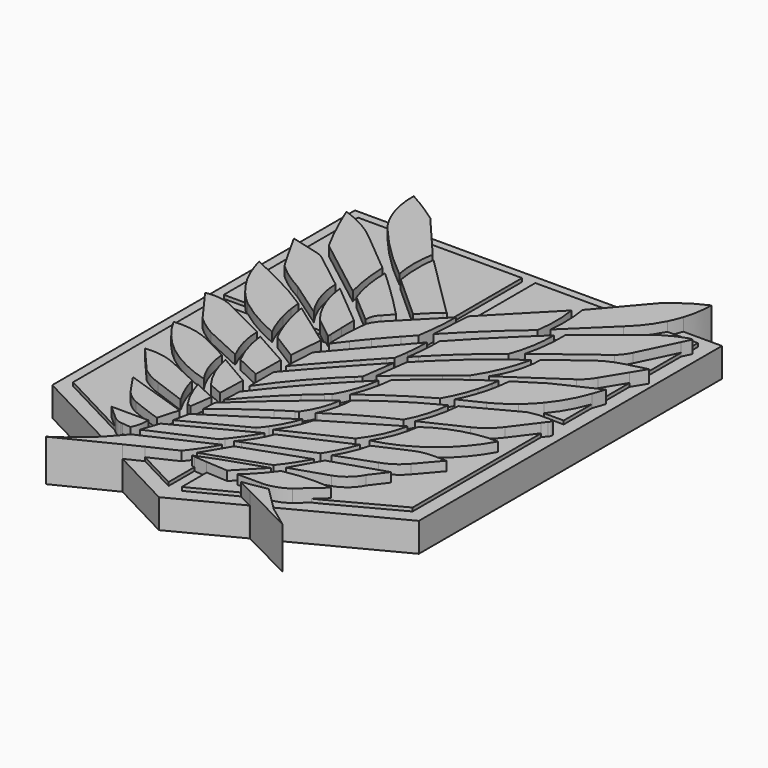
from build123d import *

# Parameters (mm, degrees)
F1_DEPTH = 3.175
F2_DEPTH = 3.556
F3_DEPTH = 4.572


with BuildPart() as f1:
    # F0 (on Top) → F1 (new body)
    with BuildSketch(Plane.XY):
        with BuildLine():
            Line((10.942101, 27.708571), (12.175975, 29.150536))
            Line((12.175975, 29.150536), (12.173106, 29.150536))
            Line((12.173106, 29.150536), (0, 29.150536))
            Line((0, 29.150536), (-11.401706, 29.150536))
            Line((-11.401706, 29.150536), (-11.615391, 29.150536))
            Line((-11.615391, 29.150536), (-10.398058, 27.72077))
            Line((-10.398058, 27.72077), (-0.474967, 27.72077))
            Line((-0.474967, 27.72077), (-0.474967, 17.342675))
            Line((-0.474967, 17.342675), (-0.217039, 17.144594))
            ThreePointArc((-0.217039, 17.144594), (-0.346625, 17.046327), (-0.474967, 16.946438))
            Line((-0.474967, 16.946438), (-0.455974, 15.645449))
            Line((-0.455974, 15.645449), (0.866843, 16.992101))
            ThreePointArc((0.866843, 16.992101), (0.761461, 14.682362), (0.467339, 12.389003))
            ThreePointArc((0.467339, 12.389003), (-0.04709, 11.839228), (-0.555244, 11.283645))
            Line((-0.555244, 11.283645), (-0.507173, 9.361953))
            Line((-0.507173, 9.361953), (-2.156676, 9.361953))
            Line((-2.156676, 9.361953), (-2.179665, 9.361953))
            Line((-2.179665, 9.361953), (-2.226984, 9.361953))
            ThreePointArc((-2.226984, 9.361953), (-2.839926, 8.6185), (-3.442, 7.866218))
            Line((-3.442, 7.866218), (-3.372834, 7.866218))
            Line((-3.372834, 7.866218), (-1.681395, 7.866218))
            Line((-1.681395, 7.866218), (-1.556283, 7.866218))
            Line((-1.556283, 7.866218), (0.98828, 10.840957))
            Line((0.98828, 10.840957), (0.98828, 10.90499))
            Line((0.98828, 10.90499), (0.98828, 27.708571))
            Line((0.98828, 27.708571), (10.892577, 27.708571))
            Line((10.892577, 27.708571), (10.942101, 27.708571))
        make_face()
        with BuildLine():
            Line((20.243119, 29.150536), (16.108483, 29.150536))
            Line((16.108483, 29.150536), (16.019418, 29.150536))
            ThreePointArc((16.019418, 29.150536), (15.750213, 28.418533), (15.42733, 27.708571))
            Line((15.42733, 27.708571), (15.459228, 27.708571))
            Line((15.459228, 27.708571), (18.760661, 27.708571))
            Line((18.760661, 27.708571), (18.760661, 26.364274))
            ThreePointArc((18.760661, 26.364274), (18.991637, 26.416052), (19.228328, 26.413251))
            Line((19.228328, 26.413251), (18.760661, 25.442629))
            Line((18.760661, 25.442629), (18.760661, 25.257207))
            Line((18.760661, 25.257207), (18.760661, 19.603258))
            Line((18.760661, 19.603258), (18.760661, 19.557559))
            Line((18.760661, 19.557559), (19.739991, 19.812593))
            Line((19.739991, 19.812593), (18.819967, 18.311972))
            Line((18.819967, 18.311972), (18.819967, 18.120579))
            Line((18.819967, 18.120579), (18.819967, 14.368495))
            Line((18.819967, 14.368495), (19.228361, 14.561972))
            Line((19.228361, 14.561972), (18.764395, 13.206866))
            Line((18.764395, 13.206866), (18.764395, 9.363008))
            Line((18.764395, 9.363008), (16.786488, 9.363008))
            Line((16.786488, 9.363008), (16.607055, 9.363008))
            ThreePointArc((16.607055, 9.363008), (15.875052, 8.557454), (15.074196, 7.820315))
            Line((15.074196, 7.820315), (15.12593, 7.820315))
            Line((15.12593, 7.820315), (18.787326, 7.820315))
            Line((18.787326, 7.820315), (18.787326, 7.297258))
            Line((18.787326, 7.297258), (19.257572, 7.297258))
            ThreePointArc((19.257572, 7.297258), (19.254686, 7.031807), (19.107958, 6.810575))
            Line((19.107958, 6.810575), (18.742651, 6.322609))
            Line((18.742651, 6.322609), (18.742651, 6.226238))
            Line((18.742651, 6.226238), (18.742651, -11.268058))
            Line((18.742651, -11.268058), (11.633379, -15.055937))
            Line((11.633379, -15.055937), (10.986727, -15.358332))
            Line((10.986727, -15.358332), (9.742682, -16.454276))
            ThreePointArc((9.742682, -16.454276), (8.479894, -17.112148), (7.074224, -17.339129))
            Line((7.074224, -17.339129), (5.552006, -18.248506))
            Line((5.552006, -18.248506), (8.260367, -17.774049))
            Line((8.260367, -17.774049), (8.435662, -17.997799))
            Line((8.435662, -17.997799), (8.720522, -18.280204))
            Line((8.720522, -18.280204), (8.804835, -18.236361))
            Line((8.804835, -18.236361), (20.243119, -12.288457))
            Line((20.243119, -12.288457), (20.243119, -12.045587))
            Line((20.243119, -12.045587), (20.243119, 29.150536))
        make_face()
        with BuildLine():
            ThreePointArc((11.353432, 7.866218), (11.535421, 8.609801), (11.677919, 9.361953))
            Line((11.677919, 9.361953), (10.947204, 9.361953))
            ThreePointArc((10.947204, 9.361953), (10.802359, 8.60974), (10.618024, 7.866218))
            Line((10.618024, 7.866218), (10.636701, 7.866218))
            Line((10.636701, 7.866218), (11.353432, 7.866218))
        make_face()
        with BuildLine():
            Line((8.533673, 9.361953), (6.699276, 7.866218))
            Line((6.699276, 7.866218), (7.882031, 7.866218))
            Line((7.882031, 7.866218), (7.908527, 7.866218))
            ThreePointArc((7.908527, 7.866218), (8.924962, 8.624596), (9.956748, 9.361953))
            Line((9.956748, 9.361953), (8.533673, 9.361953))
        make_face()
        with BuildLine():
            Line((2.33831, 9.361953), (1.687748, 9.361953))
            ThreePointArc((1.687748, 9.361953), (1.588785, 8.612141), (1.463842, 7.866218))
            Line((1.463842, 7.866218), (2.777853, 7.866218))
            ThreePointArc((2.777853, 7.866218), (3.500339, 8.621369), (4.23775, 9.361953))
            Line((4.23775, 9.361953), (2.895109, 9.361953))
            ThreePointArc((2.895109, 9.361953), (2.561, 9.010898), (2.230056, 8.656858))
            ThreePointArc((2.230056, 8.656858), (2.287031, 9.008968), (2.33831, 9.361953))
        make_face()
        with BuildLine():
            Line((-5.483638, 7.866218), (-4.56902, 7.866218))
            ThreePointArc((-4.56902, 7.866218), (-4.555102, 8.62142), (-4.519934, 9.375932))
            Line((-4.519934, 9.375932), (-5.497616, 9.375932))
            Line((-5.497616, 9.375932), (-5.535204, 9.375932))
            Line((-5.535204, 9.375932), (-5.494519, 7.866218))
            Line((-5.494519, 7.866218), (-5.483638, 7.866218))
        make_face()
        Polygon((-7.342822, 7.908154), (-6.050214, 7.908154), (-7.915955, 9.375932), (-9.341796, 9.375932), (-9.504312, 9.375932), (-7.4622, 7.908154), align=None)
        with BuildLine():
            ThreePointArc((-10.020818, 7.908154), (-10.208711, 8.645378), (-10.365159, 9.38991))
            Line((-10.365159, 9.38991), (-10.460102, 9.38991))
            Line((-10.460102, 9.38991), (-11.047213, 9.38991))
            Line((-11.047213, 9.38991), (-11.098869, 9.38991))
            ThreePointArc((-11.098869, 9.38991), (-10.964954, 8.644883), (-10.791089, 7.908154))
            Line((-10.791089, 7.908154), (-10.7257, 7.908154))
            Line((-10.7257, 7.908154), (-10.020818, 7.908154))
        make_face()
        with BuildLine():
            ThreePointArc((-14.916452, 27.695863), (-15.237126, 28.41155), (-15.499689, 29.150536))
            Line((-15.499689, 29.150536), (-15.522967, 29.150536))
            Line((-15.522967, 29.150536), (-19.890798, 29.150536))
            Line((-19.890798, 29.150536), (-19.890798, 11.085769))
            Line((-19.890798, 11.085769), (-19.890798, -12.232818))
            Line((-19.890798, -12.232818), (-8.285701, -18.296458))
            Line((-8.285701, -18.296458), (-8.230479, -18.325311))
            Line((-8.230479, -18.325311), (-7.254843, -17.242709))
            Line((-7.254843, -17.242709), (-7.167171, -17.202083))
            Line((-7.167171, -17.202083), (-8.955863, -16.209904))
            Line((-8.955863, -16.209904), (-9.122639, -16.117394))
            Line((-9.122639, -16.117394), (-9.289679, -16.101856))
            ThreePointArc((-9.289679, -16.101856), (-9.790077, -15.953001), (-10.226472, -15.666446))
            Line((-10.226472, -15.666446), (-10.507414, -15.416552))
            Line((-10.507414, -15.416552), (-10.799015, -15.263421))
            Line((-10.799015, -15.263421), (-13.028231, -14.09277))
            Line((-13.028231, -14.09277), (-18.383333, -11.278228))
            Line((-18.383333, -11.278228), (-18.383333, 6.547499))
            Line((-18.383333, 6.547499), (-18.383333, 6.733614))
            Line((-18.383333, 6.733614), (-18.695435, 7.162544))
            ThreePointArc((-18.695435, 7.162544), (-18.543556, 7.18971), (-18.390896, 7.212067))
            Line((-18.390896, 7.212067), (-18.390896, 7.286378))
            Line((-18.390896, 7.286378), (-18.390896, 7.906509))
            Line((-18.390896, 7.906509), (-14.630531, 7.906509))
            ThreePointArc((-14.630531, 7.906509), (-15.392872, 8.617184), (-16.093851, 9.388451))
            Line((-16.093851, 9.388451), (-16.171413, 9.388451))
            Line((-16.171413, 9.388451), (-18.433427, 9.388451))
            Line((-18.433427, 9.388451), (-18.433427, 13.649439))
            ThreePointArc((-18.433427, 13.649439), (-18.566327, 14.095663), (-18.682644, 14.546495))
            ThreePointArc((-18.682644, 14.546495), (-18.526552, 14.474575), (-18.370595, 14.402362))
            Line((-18.370595, 14.402362), (-18.370595, 14.540819))
            Line((-18.370595, 14.540819), (-18.370595, 18.373679))
            Line((-18.370595, 18.373679), (-18.370595, 18.525376))
            ThreePointArc((-18.370595, 18.525376), (-18.708173, 19.132132), (-19.043529, 19.74012))
            Line((-19.043529, 19.74012), (-18.383423, 19.564331))
            Line((-18.383423, 19.564331), (-18.383423, 19.600941))
            Line((-18.383423, 19.600941), (-18.383423, 25.603637))
            Line((-18.383423, 25.603637), (-18.383423, 25.806943))
            ThreePointArc((-18.383423, 25.806943), (-18.505113, 26.106477), (-18.624945, 26.406759))
            ThreePointArc((-18.624945, 26.406759), (-18.503988, 26.366485), (-18.383423, 26.325055))
            Line((-18.383423, 26.325055), (-18.383423, 26.450491))
            Line((-18.383423, 26.450491), (-18.383423, 27.695863))
            Line((-18.383423, 27.695863), (-14.916452, 27.695863))
        make_face()
        Polygon((7.13353, -19.118344), (7.192141, -19.08333), (5.552006, -18.248506), (0.969347, -20.603023), (0.969347, -17.192189), (-0.476588, -17.06392), (-0.476588, -20.603023), (-4.91422, -18.275505), (-6.685039, -19.138115), (0.174824, -22.736082), align=None)
        Polygon((-0.474967, -16.379828), (-0.474967, -16.922797), (1.010695, -16.328532), (1.010695, -15.79082), (1.010695, -15.760222), (-0.474967, -16.281402), align=None)
        with BuildLine():
            Line((-0.507173, -7.806283), (0.98828, -6.840537))
            Line((0.98828, -6.840537), (0.98828, -5.292152))
            Line((0.98828, -5.292152), (0.98828, -5.168967))
            ThreePointArc((0.98828, -5.168967), (0.237136, -5.641612), (-0.507173, -6.12495))
            Line((-0.507173, -6.12495), (-0.507173, -6.32502))
            Line((-0.507173, -6.32502), (-0.507173, -7.698773))
            Line((-0.507173, -7.698773), (-0.507173, -7.806283))
        make_face()
        with BuildLine():
            ThreePointArc((0.98828, 2.979589), (0.231354, 2.253642), (-0.507173, 1.508986))
            Line((-0.507173, 1.508986), (-0.507173, 0.074131))
            ThreePointArc((-0.507173, 0.074131), (0.235138, 0.883449), (0.98828, 1.682698))
            Line((0.98828, 1.682698), (0.98828, 2.979589))
        make_face()
        with BuildLine():
            ThreePointArc((0.98828, 7.35882), (0.238441, 6.551922), (-0.507173, 5.741118))
            Line((-0.507173, 5.741118), (-0.507173, 4.392258))
            ThreePointArc((-0.507173, 4.392258), (0.238699, 5.207361), (0.98828, 6.019053))
            Line((0.98828, 6.019053), (0.98828, 7.35882))
        make_face()
        with BuildLine():
            ThreePointArc((0.98828, -1.135553), (0.233559, -1.788935), (-0.507173, -2.458133))
            Line((-0.507173, -2.458133), (-0.507173, -3.895698))
            ThreePointArc((-0.507173, -3.895698), (0.237922, -3.270935), (0.98828, -2.652504))
            Line((0.98828, -2.652504), (0.98828, -1.135553))
        make_face()
        with BuildLine():
            Line((-0.507173, -10.968228), (0.98828, -10.190985))
            Line((0.98828, -10.190985), (0.98828, -8.733833))
            ThreePointArc((0.98828, -8.733833), (0.659006, -9.180793), (0.308068, -9.610953))
            Line((0.308068, -9.610953), (-0.507173, -10.034664))
            Line((-0.507173, -10.034664), (-0.507173, -10.047038))
            Line((-0.507173, -10.047038), (-0.507173, -10.944719))
            Line((-0.507173, -10.944719), (-0.507173, -10.968228))
        make_face()
        with BuildLine():
            ThreePointArc((0, -13.880851), (-0.247287, -14.329127), (-0.507173, -14.770217))
            Line((-0.507173, -14.770217), (-0.507173, -15.968322))
            Line((-0.507173, -15.968322), (0.98828, -13.470334))
            Line((0.98828, -13.470334), (0.98828, -12.47053))
            Line((0.98828, -12.47053), (0.381715, -12.710931))
            ThreePointArc((0.381715, -12.710931), (0.693667, -12.358838), (0.98828, -11.992113))
            Line((0.98828, -11.992113), (0.98828, -10.760326))
            ThreePointArc((0.98828, -10.760326), (0.272264, -11.823773), (-0.507173, -12.841651))
            Line((-0.507173, -12.841651), (-0.507173, -14.115872))
            Line((-0.507173, -14.115872), (0, -13.880851))
        make_face()
    extrude(amount=F1_DEPTH)


with BuildPart() as f2:
    # F0 (on Top) → F2 (new body)
    with BuildSketch(Plane.XY):
        with BuildLine():
            Line((-0.474967, 27.72077), (-10.398058, 27.72077))
            Line((-10.398058, 27.72077), (-7.915955, 24.805522))
            ThreePointArc((-7.915955, 24.805522), (-8.132239, 22.519759), (-7.915955, 20.233996))
            ThreePointArc((-7.915955, 20.233996), (-11.139656, 23.114489), (-14.067844, 26.294928))
            ThreePointArc((-14.067844, 26.294928), (-14.521397, 26.977678), (-14.916452, 27.695863))
            Line((-14.916452, 27.695863), (-18.383423, 27.695863))
            Line((-18.383423, 27.695863), (-18.383423, 26.450491))
            Line((-18.383423, 26.450491), (-18.383423, 26.325055))
            ThreePointArc((-18.383423, 26.325055), (-16.091894, 25.272433), (-14.039887, 23.806697))
            Line((-14.039887, 23.806697), (-9.731579, 20.210842))
            ThreePointArc((-9.731579, 20.210842), (-9.534365, 17.726664), (-9.041188, 15.283959))
            Line((-9.041188, 15.283959), (-15.885092, 20.563606))
            ThreePointArc((-15.885092, 20.563606), (-17.207241, 23.1505), (-18.383423, 25.806943))
            Line((-18.383423, 25.806943), (-18.383423, 25.603637))
            Line((-18.383423, 25.603637), (-18.383423, 19.600941))
            Line((-18.383423, 19.600941), (-18.383423, 19.564331))
            Line((-18.383423, 19.564331), (-16.156439, 18.971276))
            ThreePointArc((-16.156439, 18.971276), (-15.494861, 18.764285), (-14.901182, 18.40641))
            Line((-14.901182, 18.40641), (-10.979212, 15.34927))
            ThreePointArc((-10.979212, 15.34927), (-10.498252, 12.651838), (-9.250344, 10.212539))
            Line((-9.250344, 10.212539), (-13.31642, 13.040187))
            ThreePointArc((-13.31642, 13.040187), (-14.988017, 14.060579), (-16.517324, 15.283958))
            ThreePointArc((-16.517324, 15.283958), (-17.451933, 16.900108), (-18.370595, 18.525376))
            Line((-18.370595, 18.525376), (-18.370595, 18.373679))
            Line((-18.370595, 18.373679), (-18.370595, 14.540819))
            Line((-18.370595, 14.540819), (-18.370595, 14.402362))
            ThreePointArc((-18.370595, 14.402362), (-15.823862, 13.171981), (-13.316422, 11.863383))
            Line((-13.316422, 11.863383), (-11.227936, 10.575873))
            ThreePointArc((-11.227936, 10.575873), (-11.176002, 9.98152), (-11.098869, 9.38991))
            Line((-11.098869, 9.38991), (-11.047213, 9.38991))
            Line((-11.047213, 9.38991), (-10.460102, 9.38991))
            Line((-10.460102, 9.38991), (-10.365159, 9.38991))
            ThreePointArc((-10.365159, 9.38991), (-10.426281, 9.733255), (-10.480713, 10.077724))
            Line((-10.480713, 10.077724), (-9.504312, 9.375932))
            Line((-9.504312, 9.375932), (-9.341796, 9.375932))
            Line((-9.341796, 9.375932), (-7.915955, 9.375932))
            ThreePointArc((-7.915955, 9.375932), (-9.45141, 12.002726), (-10.183295, 14.956032))
            Line((-10.183295, 14.956032), (-5.58209, 11.115715))
            Line((-5.58209, 11.115715), (-5.535204, 9.375932))
            Line((-5.535204, 9.375932), (-5.497616, 9.375932))
            Line((-5.497616, 9.375932), (-4.519934, 9.375932))
            ThreePointArc((-4.519934, 9.375932), (-4.441924, 10.360622), (-4.327725, 11.341774))
            ThreePointArc((-4.327725, 11.341774), (-3.980171, 11.966481), (-3.526846, 12.519246))
            Line((-3.526846, 12.519246), (-0.455974, 15.645449))
            Line((-0.455974, 15.645449), (-0.474967, 16.946438))
            ThreePointArc((-0.474967, 16.946438), (-1.449475, 16.095745), (-2.334172, 15.151999))
            Line((-2.334172, 15.151999), (-7.157961, 19.485928))
            ThreePointArc((-7.157961, 19.485928), (-7.371459, 21.784771), (-7.257704, 24.090702))
            Line((-7.257704, 24.090702), (-0.474967, 17.342675))
            Line((-0.474967, 17.342675), (-0.474967, 27.72077))
        make_face()
        with BuildLine():
            ThreePointArc((-8.084055, 14.593568), (-8.730371, 17.051236), (-8.947044, 19.583214))
            ThreePointArc((-8.947044, 19.583214), (-6.160052, 16.950076), (-3.464326, 14.223576))
            Line((-3.464326, 14.223576), (-4.341322, 13.271941))
            ThreePointArc((-4.341322, 13.271941), (-4.77952, 12.625369), (-4.901107, 11.853819))
            Line((-4.901107, 11.853819), (-8.084055, 14.593568))
        make_face(mode=Mode.SUBTRACT)
        with BuildLine():
            Line((15.459228, 27.708571), (15.42733, 27.708571))
            ThreePointArc((15.42733, 27.708571), (14.404282, 26.064173), (13.0962, 24.636028))
            Line((13.0962, 24.636028), (8.591113, 20.280609))
            ThreePointArc((8.591113, 20.280609), (8.687363, 22.553768), (8.469068, 24.818467))
            Line((8.469068, 24.818467), (10.942101, 27.708571))
            Line((10.942101, 27.708571), (10.892577, 27.708571))
            Line((10.892577, 27.708571), (0.98828, 27.708571))
            Line((0.98828, 27.708571), (0.98828, 10.90499))
            Line((0.98828, 10.90499), (0.98828, 10.840957))
            Line((0.98828, 10.840957), (1.828737, 11.8235))
            ThreePointArc((1.828737, 11.8235), (1.79311, 10.590729), (1.687748, 9.361953))
            Line((1.687748, 9.361953), (2.33831, 9.361953))
            ThreePointArc((2.33831, 9.361953), (2.501191, 11.006033), (2.540644, 12.657691))
            ThreePointArc((2.540644, 12.657691), (5.948297, 16.20438), (9.491394, 19.615768))
            ThreePointArc((9.491394, 19.615768), (9.284114, 17.030973), (8.616025, 14.525422))
            ThreePointArc((8.616025, 14.525422), (5.663344, 12.045866), (2.895109, 9.361953))
            Line((2.895109, 9.361953), (4.23775, 9.361953))
            ThreePointArc((4.23775, 9.361953), (7.414509, 12.242931), (10.816341, 14.854322))
            ThreePointArc((10.816341, 14.854322), (9.93373, 12.000611), (8.533673, 9.361953))
            Line((8.533673, 9.361953), (9.956748, 9.361953))
            ThreePointArc((9.956748, 9.361953), (10.501828, 9.738764), (11.050918, 10.109708))
            ThreePointArc((11.050918, 10.109708), (11.003924, 9.735156), (10.947204, 9.361953))
            Line((10.947204, 9.361953), (11.677919, 9.361953))
            ThreePointArc((11.677919, 9.361953), (11.764695, 9.980921), (11.82472, 10.603053))
            Line((11.82472, 10.603053), (14.692879, 12.413286))
            Line((14.692879, 12.413286), (18.819967, 14.368495))
            Line((18.819967, 14.368495), (18.819967, 18.120579))
            Line((18.819967, 18.120579), (18.819967, 18.311972))
            Line((18.819967, 18.311972), (17.318511, 15.862996))
            ThreePointArc((17.318511, 15.862996), (16.782535, 15.084924), (16.073164, 14.460856))
            Line((16.073164, 14.460856), (9.88951, 10.244225))
            ThreePointArc((9.88951, 10.244225), (11.046519, 12.70549), (11.464646, 15.392806))
            Line((11.464646, 15.392806), (14.493965, 17.671807))
            ThreePointArc((14.493965, 17.671807), (15.90102, 18.616742), (17.483078, 19.224854))
            Line((17.483078, 19.224854), (18.760661, 19.557559))
            Line((18.760661, 19.557559), (18.760661, 19.603258))
            Line((18.760661, 19.603258), (18.760661, 25.257207))
            Line((18.760661, 25.257207), (18.760661, 25.442629))
            Line((18.760661, 25.442629), (16.776228, 21.324035))
            ThreePointArc((16.776228, 21.324035), (16.3514, 20.626357), (15.798893, 20.024719))
            Line((15.798893, 20.024719), (9.697986, 15.419946))
            ThreePointArc((9.697986, 15.419946), (10.132875, 17.820124), (10.229945, 20.257451))
            Line((10.229945, 20.257451), (15.549537, 24.596242))
            ThreePointArc((15.549537, 24.596242), (17.074923, 25.625875), (18.760661, 26.364274))
            Line((18.760661, 26.364274), (18.760661, 27.708571))
            Line((18.760661, 27.708571), (15.459228, 27.708571))
        make_face()
        with BuildLine():
            Line((1.303597, 13.369124), (1.592817, 17.809806))
            Line((1.592817, 17.809806), (7.789735, 24.160014))
            ThreePointArc((7.789735, 24.160014), (7.972037, 21.83503), (7.789735, 19.510046))
            ThreePointArc((7.789735, 19.510046), (4.460777, 16.530302), (1.303597, 13.369124))
        make_face(mode=Mode.SUBTRACT)
        with BuildLine():
            Line((0.969347, -20.603023), (5.552006, -18.248506))
            Line((5.552006, -18.248506), (7.074224, -17.339129))
            Line((7.074224, -17.339129), (4.42517, -17.339129))
            ThreePointArc((4.42517, -17.339129), (5.774018, -16.008182), (6.958391, -14.528968))
            ThreePointArc((6.958391, -14.528968), (9.584801, -14.202252), (12.230772, -14.262388))
            Line((12.230772, -14.262388), (10.986727, -15.358332))
            Line((10.986727, -15.358332), (11.633379, -15.055937))
            Line((11.633379, -15.055937), (18.742651, -11.268058))
            Line((18.742651, -11.268058), (18.742651, 6.226238))
            Line((18.742651, 6.226238), (18.742651, 6.322609))
            Line((18.742651, 6.322609), (16.830508, 3.768433))
            ThreePointArc((16.830508, 3.768433), (15.798741, 2.691508), (14.538386, 1.894127))
            Line((14.538386, 1.894127), (10.155271, -0.184002))
            ThreePointArc((10.155271, -0.184002), (10.930187, 1.997692), (11.292315, 4.284425))
            Line((11.292315, 4.284425), (16.570801, 7.094883))
            Line((16.570801, 7.094883), (17.64507, 7.297258))
            Line((17.64507, 7.297258), (18.787326, 7.297258))
            Line((18.787326, 7.297258), (18.787326, 7.820315))
            Line((18.787326, 7.820315), (15.12593, 7.820315))
            Line((15.12593, 7.820315), (15.074196, 7.820315))
            ThreePointArc((15.074196, 7.820315), (13.974248, 6.996118), (12.78861, 6.300815))
            Line((12.78861, 6.300815), (10.273092, 5.078321))
            ThreePointArc((10.273092, 5.078321), (10.885302, 6.444353), (11.353432, 7.866218))
            Line((11.353432, 7.866218), (10.636701, 7.866218))
            Line((10.636701, 7.866218), (10.618024, 7.866218))
            ThreePointArc((10.618024, 7.866218), (10.011587, 6.114719), (9.18685, 4.454803))
            ThreePointArc((9.18685, 4.454803), (5.877483, 2.453758), (2.730293, 0.206251))
            ThreePointArc((2.730293, 0.206251), (3.436149, 2.288536), (3.812223, 4.454803))
            ThreePointArc((3.812223, 4.454803), (5.823567, 6.204708), (7.908527, 7.866218))
            Line((7.908527, 7.866218), (7.882031, 7.866218))
            Line((7.882031, 7.866218), (6.699276, 7.866218))
            Line((6.699276, 7.866218), (2.321271, 4.296472))
            Line((2.321271, 4.296472), (2.777853, 7.866218))
            Line((2.777853, 7.866218), (1.463842, 7.866218))
            ThreePointArc((1.463842, 7.866218), (1.225852, 7.612715), (0.98828, 7.35882))
            Line((0.98828, 7.35882), (0.98828, 6.019053))
            ThreePointArc((0.98828, 6.019053), (1.491297, 6.559612), (1.99596, 7.098635))
            Line((1.99596, 7.098635), (1.48559, 3.437282))
            ThreePointArc((1.48559, 3.437282), (1.236012, 3.209438), (0.98828, 2.979589))
            Line((0.98828, 2.979589), (0.98828, 1.682698))
            ThreePointArc((0.98828, 1.682698), (1.986026, 2.709156), (3.001634, 3.717945))
            ThreePointArc((3.001634, 3.717945), (2.474452, 1.41837), (1.482755, -0.722307))
            ThreePointArc((1.482755, -0.722307), (1.234812, -0.928086), (0.98828, -1.135553))
            Line((0.98828, -1.135553), (0.98828, -2.652504))
            ThreePointArc((0.98828, -2.652504), (1.876213, -1.934308), (2.771244, -1.224977))
            ThreePointArc((2.771244, -1.224977), (2.267586, -3.189228), (1.305123, -4.974058))
            ThreePointArc((1.305123, -4.974058), (1.146555, -5.071275), (0.98828, -5.168967))
            Line((0.98828, -5.168967), (0.98828, -5.292152))
            Line((0.98828, -5.292152), (0.98828, -6.840537))
            Line((0.98828, -6.840537), (2.416203, -5.918401))
            ThreePointArc((2.416203, -5.918401), (1.801556, -7.376487), (0.98828, -8.733833))
            Line((0.98828, -8.733833), (0.98828, -10.190985))
            Line((0.98828, -10.190985), (1.482755, -9.933989))
            ThreePointArc((1.482755, -9.933989), (1.240244, -10.349986), (0.98828, -10.760326))
            Line((0.98828, -10.760326), (0.98828, -11.992113))
            ThreePointArc((0.98828, -11.992113), (1.755422, -10.823637), (2.34766, -9.557502))
            Line((2.34766, -9.557502), (9.182287, -6.536016))
            ThreePointArc((9.182287, -6.536016), (8.478932, -8.24763), (7.572587, -9.86097))
            Line((7.572587, -9.86097), (0.98828, -12.47053))
            Line((0.98828, -12.47053), (0.98828, -13.470334))
            Line((0.98828, -13.470334), (7.783695, -11.074843))
            ThreePointArc((7.783695, -11.074843), (6.846636, -12.618134), (5.791361, -14.083134))
            Line((5.791361, -14.083134), (1.010695, -15.760222))
            Line((1.010695, -15.760222), (1.010695, -15.79082))
            Line((1.010695, -15.79082), (1.010695, -16.328532))
            Line((1.010695, -16.328532), (1.542479, -16.115818))
            Line((1.542479, -16.115818), (5.931833, -14.634062))
            Line((5.931833, -14.634062), (3.317791, -17.331976))
            Line((3.317791, -17.331976), (0.969347, -17.192189))
            Line((0.969347, -17.192189), (0.969347, -20.603023))
        make_face()
        with BuildLine():
            Line((6.916082, -13.784656), (8.675436, -10.680143))
            Line((8.675436, -10.680143), (14.408045, -8.831475))
            Line((14.408045, -8.831475), (13.094967, -10.56572))
            ThreePointArc((13.094967, -10.56572), (12.1527, -11.753457), (10.831011, -12.496238))
            Line((10.831011, -12.496238), (6.916082, -13.784656))
        make_face(mode=Mode.SUBTRACT)
        with BuildLine():
            Line((8.185269, -5.867161), (1.661558, -8.976954))
            ThreePointArc((1.661558, -8.976954), (2.644995, -7.282989), (3.310841, -5.440893))
            Line((3.310841, -5.440893), (10.240407, -1.326867))
            ThreePointArc((10.240407, -1.326867), (9.481408, -3.718581), (8.185269, -5.867161))
        make_face(mode=Mode.SUBTRACT)
        with BuildLine():
            Line((2.574471, -4.316938), (2.624739, -4.213827))
            ThreePointArc((2.624739, -4.213827), (3.267118, -2.44076), (3.521949, -0.57221))
            ThreePointArc((3.521949, -0.57221), (6.907758, 1.828775), (10.51216, 3.887103))
            ThreePointArc((10.51216, 3.887103), (10.083807, 1.588584), (9.195336, -0.574122))
            ThreePointArc((9.195336, -0.574122), (5.871654, -2.254169), (2.70477, -4.213827))
            Line((2.70477, -4.213827), (2.574471, -4.316938))
        make_face(mode=Mode.SUBTRACT)
        with BuildLine():
            Line((12.505243, -8.105647), (8.534526, -9.561853))
            ThreePointArc((8.534526, -9.561853), (9.420442, -7.909541), (9.985871, -6.122009))
            Line((9.985871, -6.122009), (13.313195, -4.638219))
            ThreePointArc((13.313195, -4.638219), (14.283777, -4.32293), (15.298842, -4.217668))
            Line((15.298842, -4.217668), (16.808925, -4.220765))
            Line((16.808925, -4.220765), (14.797539, -6.566543))
            ThreePointArc((14.797539, -6.566543), (13.756192, -7.492183), (12.505243, -8.105647))
        make_face(mode=Mode.SUBTRACT)
        with BuildLine():
            ThreePointArc((18.03495, 1.319876), (14.395736, -2.953462), (9.341825, -5.395444))
            ThreePointArc((9.341825, -5.395444), (10.439533, -3.22657), (11.015926, -0.865057))
            ThreePointArc((11.015926, -0.865057), (14.352741, 0.782195), (18.03495, 1.319876))
        make_face(mode=Mode.SUBTRACT)
        with BuildLine():
            Line((-4.620949, 4.283449), (-1.556283, 7.866218))
            Line((-1.556283, 7.866218), (-1.681395, 7.866218))
            Line((-1.681395, 7.866218), (-3.372834, 7.866218))
            Line((-3.372834, 7.866218), (-3.442, 7.866218))
            ThreePointArc((-3.442, 7.866218), (-3.994445, 7.155702), (-4.537195, 6.437751))
            ThreePointArc((-4.537195, 6.437751), (-4.562617, 7.151773), (-4.56902, 7.866218))
            Line((-4.56902, 7.866218), (-5.483638, 7.866218))
            Line((-5.483638, 7.866218), (-5.494519, 7.866218))
            Line((-5.494519, 7.866218), (-5.483638, 7.462428))
            Line((-5.483638, 7.462428), (-6.050214, 7.908154))
            Line((-6.050214, 7.908154), (-7.342822, 7.908154))
            Line((-7.342822, 7.908154), (-7.4622, 7.908154))
            Line((-7.4622, 7.908154), (-5.483638, 6.486053))
            Line((-5.483638, 6.486053), (-5.77084, 2.738883))
            Line((-5.77084, 2.738883), (-8.737192, 4.598085))
            ThreePointArc((-8.737192, 4.598085), (-9.461137, 6.221269), (-10.020818, 7.908154))
            Line((-10.020818, 7.908154), (-10.7257, 7.908154))
            Line((-10.7257, 7.908154), (-10.791089, 7.908154))
            ThreePointArc((-10.791089, 7.908154), (-10.325897, 6.468781), (-9.708582, 5.087794))
            ThreePointArc((-9.708582, 5.087794), (-12.257273, 6.343984), (-14.630531, 7.906509))
            Line((-14.630531, 7.906509), (-18.390896, 7.906509))
            Line((-18.390896, 7.906509), (-18.390896, 7.286378))
            Line((-18.390896, 7.286378), (-18.390896, 7.212067))
            ThreePointArc((-18.390896, 7.212067), (-16.879306, 7.17312), (-15.452032, 6.673812))
            Line((-15.452032, 6.673812), (-10.704881, 4.274289))
            ThreePointArc((-10.704881, 4.274289), (-10.399276, 2.075003), (-9.608953, 0))
            Line((-9.608953, 0), (-9.608953, -0.124004))
            Line((-9.608953, -0.124004), (-13.704445, 1.756873))
            ThreePointArc((-13.704445, 1.756873), (-14.867756, 2.48362), (-15.925953, 3.356359))
            Line((-15.925953, 3.356359), (-18.383333, 6.733614))
            Line((-18.383333, 6.733614), (-18.383333, 6.547499))
            Line((-18.383333, 6.547499), (-18.383333, -11.278228))
            Line((-18.383333, -11.278228), (-13.028231, -14.09277))
            Line((-13.028231, -14.09277), (-10.799015, -15.263421))
            Line((-10.799015, -15.263421), (-10.507414, -15.416552))
            Line((-10.507414, -15.416552), (-11.563646, -14.477047))
            Line((-11.563646, -14.477047), (-11.796589, -14.281048))
            Line((-11.796589, -14.281048), (-7.745951, -14.281048))
            ThreePointArc((-7.745951, -14.281048), (-7.824285, -15.27102), (-8.154972, -16.20741))
            Line((-8.154972, -16.20741), (-9.122639, -16.117394))
            Line((-9.122639, -16.117394), (-8.955863, -16.209904))
            Line((-8.955863, -16.209904), (-7.167171, -17.202083))
            Line((-7.167171, -17.202083), (-0.507173, -14.115872))
            Line((-0.507173, -14.115872), (-0.507173, -12.841651))
            ThreePointArc((-0.507173, -12.841651), (-0.682049, -13.053325), (-0.859671, -13.262699))
            Line((-0.859671, -13.262699), (-7.217684, -16.080655))
            Line((-7.217684, -16.080655), (-6.54842, -14.108086))
            Line((-6.54842, -14.108086), (-0.507173, -10.968228))
            Line((-0.507173, -10.968228), (-0.507173, -10.944719))
            Line((-0.507173, -10.944719), (-0.507173, -10.047038))
            Line((-0.507173, -10.047038), (-0.507173, -10.034664))
            Line((-0.507173, -10.034664), (-6.108114, -12.945679))
            Line((-6.108114, -12.945679), (-5.738257, -11.184457))
            Line((-5.738257, -11.184457), (-0.507173, -7.806283))
            Line((-0.507173, -7.806283), (-0.507173, -7.698773))
            Line((-0.507173, -7.698773), (-0.507173, -6.32502))
            Line((-0.507173, -6.32502), (-0.507173, -6.12495))
            ThreePointArc((-0.507173, -6.12495), (-3.00059, -7.858585), (-5.406221, -9.712112))
            Line((-5.406221, -9.712112), (-5.317361, -8.201486))
            ThreePointArc((-5.317361, -8.201486), (-2.942528, -6.014786), (-0.507173, -3.895698))
            Line((-0.507173, -3.895698), (-0.507173, -2.458133))
            ThreePointArc((-0.507173, -2.458133), (-2.870199, -4.79823), (-5.062559, -7.29893))
            Line((-5.062559, -7.29893), (-4.949515, -5.277113))
            ThreePointArc((-4.949515, -5.277113), (-2.785411, -2.554116), (-0.507173, 0.074131))
            Line((-0.507173, 0.074131), (-0.507173, 1.508986))
            ThreePointArc((-0.507173, 1.508986), (-2.842437, -1.117219), (-4.949515, -3.929803))
            Line((-4.949515, -3.929803), (-4.949515, -0.622232))
            ThreePointArc((-4.949515, -0.622232), (-2.745676, 1.900368), (-0.507173, 4.392258))
            Line((-0.507173, 4.392258), (-0.507173, 5.741118))
            ThreePointArc((-0.507173, 5.741118), (-2.676955, 3.332307), (-4.80945, 0.890426))
            Line((-4.80945, 0.890426), (-4.620949, 4.283449))
        make_face()
        with BuildLine():
            Line((-12.258389, -11.074842), (-13.762535, -8.871401))
            Line((-13.762535, -8.871401), (-6.809159, -11.180396))
            Line((-6.809159, -11.180396), (-7.455677, -13.476198))
            ThreePointArc((-7.455677, -13.476198), (-9.108524, -12.889871), (-10.741048, -12.249132))
            ThreePointArc((-10.741048, -12.249132), (-11.567681, -11.749803), (-12.258389, -11.074842))
        make_face(mode=Mode.SUBTRACT)
        with BuildLine():
            Line((-12.714962, -4.669949), (-9.433203, -6.186839))
            ThreePointArc((-9.433203, -6.186839), (-8.827144, -7.930126), (-7.988571, -9.574252))
            Line((-7.988571, -9.574252), (-11.459627, -8.297571))
            ThreePointArc((-11.459627, -8.297571), (-12.63601, -7.798871), (-13.693531, -7.081774))
            Line((-13.693531, -7.081774), (-16.273392, -4.076878))
            ThreePointArc((-16.273392, -4.076878), (-14.454229, -4.133725), (-12.714962, -4.669949))
        make_face(mode=Mode.SUBTRACT)
        with BuildLine():
            Line((-13.082422, 0.453588), (-10.379686, -0.931367))
            ThreePointArc((-10.379686, -0.931367), (-9.912769, -3.242588), (-8.835424, -5.339986))
            ThreePointArc((-8.835424, -5.339986), (-11.621728, -4.272626), (-14.148747, -2.686144))
            ThreePointArc((-14.148747, -2.686144), (-15.983021, -0.859282), (-17.436579, 1.282951))
            ThreePointArc((-17.436579, 1.282951), (-15.199214, 1.184773), (-13.082422, 0.453588))
        make_face(mode=Mode.SUBTRACT)
        with BuildLine():
            ThreePointArc((-7.01718, -9.823327), (-7.924633, -8.199413), (-8.58635, -6.460821))
            Line((-8.58635, -6.460821), (-6.216028, -7.558983))
            Line((-6.216028, -7.558983), (-6.565676, -10.006519))
            Line((-6.565676, -10.006519), (-7.01718, -9.823327))
        make_face(mode=Mode.SUBTRACT)
        with BuildLine():
            ThreePointArc((-7.664774, -5.838135), (-8.887233, -3.731391), (-9.607555, -1.404609))
            Line((-9.607555, -1.404609), (-6.040679, -3.48713))
            Line((-6.040679, -3.48713), (-6.12874, -6.498821))
            Line((-6.12874, -6.498821), (-7.664774, -5.838135))
        make_face(mode=Mode.SUBTRACT)
        with BuildLine():
            ThreePointArc((-8.612655, -0.607571), (-9.48988, 1.521471), (-9.957657, 3.776139))
            Line((-9.957657, 3.776139), (-5.864556, 1.479517))
            Line((-5.864556, 1.479517), (-5.917393, -1.884418))
            Line((-5.917393, -1.884418), (-8.612655, -0.607571))
        make_face(mode=Mode.SUBTRACT)
        with BuildLine():
            Line((-0.476588, -20.603023), (-0.476588, -17.06392))
            Line((-0.476588, -17.06392), (-0.764028, -17.038422))
            Line((-0.764028, -17.038422), (-0.474967, -16.922797))
            Line((-0.474967, -16.922797), (-0.474967, -16.379828))
            Line((-0.474967, -16.379828), (-0.474967, -16.281402))
            Line((-0.474967, -16.281402), (-0.752992, -16.378935))
            Line((-0.752992, -16.378935), (-0.507173, -15.968322))
            Line((-0.507173, -15.968322), (-0.507173, -14.770217))
            ThreePointArc((-0.507173, -14.770217), (-1.23237, -15.869769), (-2.035734, -16.913576))
            Line((-2.035734, -16.913576), (-4.91422, -18.275505))
            Line((-4.91422, -18.275505), (-0.476588, -20.603023))
        make_face()
        with BuildLine():
            Line((18.764395, 9.363008), (18.764395, 13.206866))
            ThreePointArc((18.764395, 13.206866), (17.86068, 11.186745), (16.607055, 9.363008))
            Line((16.607055, 9.363008), (16.786488, 9.363008))
            Line((16.786488, 9.363008), (18.764395, 9.363008))
        make_face()
        with BuildLine():
            ThreePointArc((-16.093851, 9.388451), (-17.471141, 11.405012), (-18.433427, 13.649439))
            Line((-18.433427, 13.649439), (-18.433427, 9.388451))
            Line((-18.433427, 9.388451), (-16.171413, 9.388451))
            Line((-16.171413, 9.388451), (-16.093851, 9.388451))
        make_face()
        with BuildLine():
            ThreePointArc((-0.555244, 11.283645), (-1.400343, 10.330828), (-2.226984, 9.361953))
            Line((-2.226984, 9.361953), (-2.179665, 9.361953))
            Line((-2.179665, 9.361953), (-2.156676, 9.361953))
            Line((-2.156676, 9.361953), (-0.507173, 9.361953))
            Line((-0.507173, 9.361953), (-0.555244, 11.283645))
        make_face()
    extrude(amount=F2_DEPTH)


with BuildPart() as f3:
    # F0 (on Top) → F3 (new body)
    with BuildSketch(Plane.XY):
        with BuildLine():
            Line((-10.398058, 27.72077), (-11.615391, 29.150536))
            Line((-11.615391, 29.150536), (-12.278554, 29.929426))
            ThreePointArc((-12.278554, 29.929426), (-14.075687, 31.143481), (-15.941009, 32.249913))
            ThreePointArc((-15.941009, 32.249913), (-15.844608, 30.682531), (-15.499689, 29.150536))
            ThreePointArc((-15.499689, 29.150536), (-15.237126, 28.41155), (-14.916452, 27.695863))
            ThreePointArc((-14.916452, 27.695863), (-14.521397, 26.977678), (-14.067844, 26.294928))
            ThreePointArc((-14.067844, 26.294928), (-11.139656, 23.114489), (-7.915955, 20.233996))
            ThreePointArc((-7.915955, 20.233996), (-8.132239, 22.519759), (-7.915955, 24.805522))
            Line((-7.915955, 24.805522), (-10.398058, 27.72077))
        make_face()
        with BuildLine():
            Line((-0.217039, 17.144594), (-0.474967, 17.342675))
            Line((-0.474967, 17.342675), (-7.257704, 24.090702))
            ThreePointArc((-7.257704, 24.090702), (-7.371459, 21.784771), (-7.157961, 19.485928))
            Line((-7.157961, 19.485928), (-2.334172, 15.151999))
            ThreePointArc((-2.334172, 15.151999), (-1.449475, 16.095745), (-0.474967, 16.946438))
            ThreePointArc((-0.474967, 16.946438), (-0.346625, 17.046327), (-0.217039, 17.144594))
        make_face()
        with BuildLine():
            ThreePointArc((-3.464326, 14.223576), (-6.160052, 16.950076), (-8.947044, 19.583214))
            ThreePointArc((-8.947044, 19.583214), (-8.730371, 17.051236), (-8.084055, 14.593568))
            Line((-8.084055, 14.593568), (-4.901107, 11.853819))
            ThreePointArc((-4.901107, 11.853819), (-4.77952, 12.625369), (-4.341322, 13.271941))
            Line((-4.341322, 13.271941), (-3.464326, 14.223576))
        make_face()
        with BuildLine():
            ThreePointArc((-14.039887, 23.806697), (-16.091894, 25.272433), (-18.383423, 26.325055))
            ThreePointArc((-18.383423, 26.325055), (-18.503988, 26.366485), (-18.624945, 26.406759))
            ThreePointArc((-18.624945, 26.406759), (-18.505113, 26.106477), (-18.383423, 25.806943))
            ThreePointArc((-18.383423, 25.806943), (-17.207241, 23.1505), (-15.885092, 20.563606))
            Line((-15.885092, 20.563606), (-9.041188, 15.283959))
            ThreePointArc((-9.041188, 15.283959), (-9.534365, 17.726664), (-9.731579, 20.210842))
            Line((-9.731579, 20.210842), (-14.039887, 23.806697))
        make_face()
        with BuildLine():
            Line((-16.156439, 18.971276), (-18.383423, 19.564331))
            Line((-18.383423, 19.564331), (-19.043529, 19.74012))
            ThreePointArc((-19.043529, 19.74012), (-18.708173, 19.132132), (-18.370595, 18.525376))
            ThreePointArc((-18.370595, 18.525376), (-17.451933, 16.900108), (-16.517324, 15.283958))
            ThreePointArc((-16.517324, 15.283958), (-14.988017, 14.060579), (-13.31642, 13.040187))
            Line((-13.31642, 13.040187), (-9.250344, 10.212539))
            ThreePointArc((-9.250344, 10.212539), (-10.498252, 12.651838), (-10.979212, 15.34927))
            Line((-10.979212, 15.34927), (-14.901182, 18.40641))
            ThreePointArc((-14.901182, 18.40641), (-15.494861, 18.764285), (-16.156439, 18.971276))
        make_face()
        with BuildLine():
            Line((-5.483638, 7.462428), (-5.494519, 7.866218))
            Line((-5.494519, 7.866218), (-5.535204, 9.375932))
            Line((-5.535204, 9.375932), (-5.58209, 11.115715))
            Line((-5.58209, 11.115715), (-10.183295, 14.956032))
            ThreePointArc((-10.183295, 14.956032), (-9.45141, 12.002726), (-7.915955, 9.375932))
            Line((-7.915955, 9.375932), (-6.050214, 7.908154))
            Line((-6.050214, 7.908154), (-5.483638, 7.462428))
        make_face()
        with BuildLine():
            Line((-5.483638, 6.486053), (-7.4622, 7.908154))
            Line((-7.4622, 7.908154), (-9.504312, 9.375932))
            Line((-9.504312, 9.375932), (-10.480713, 10.077724))
            ThreePointArc((-10.480713, 10.077724), (-10.426281, 9.733255), (-10.365159, 9.38991))
            ThreePointArc((-10.365159, 9.38991), (-10.208711, 8.645378), (-10.020818, 7.908154))
            ThreePointArc((-10.020818, 7.908154), (-9.461137, 6.221269), (-8.737192, 4.598085))
            Line((-8.737192, 4.598085), (-5.77084, 2.738883))
            Line((-5.77084, 2.738883), (-5.483638, 6.486053))
        make_face()
        with BuildLine():
            ThreePointArc((-13.316422, 11.863383), (-15.823862, 13.171981), (-18.370595, 14.402362))
            ThreePointArc((-18.370595, 14.402362), (-18.526552, 14.474575), (-18.682644, 14.546495))
            ThreePointArc((-18.682644, 14.546495), (-18.566327, 14.095663), (-18.433427, 13.649439))
            ThreePointArc((-18.433427, 13.649439), (-17.471141, 11.405012), (-16.093851, 9.388451))
            ThreePointArc((-16.093851, 9.388451), (-15.392872, 8.617184), (-14.630531, 7.906509))
            ThreePointArc((-14.630531, 7.906509), (-12.257273, 6.343984), (-9.708582, 5.087794))
            ThreePointArc((-9.708582, 5.087794), (-10.325897, 6.468781), (-10.791089, 7.908154))
            ThreePointArc((-10.791089, 7.908154), (-10.964954, 8.644883), (-11.098869, 9.38991))
            ThreePointArc((-11.098869, 9.38991), (-11.176002, 9.98152), (-11.227936, 10.575873))
            Line((-11.227936, 10.575873), (-13.316422, 11.863383))
        make_face()
        with BuildLine():
            Line((-18.695435, 7.162544), (-18.383333, 6.733614))
            Line((-18.383333, 6.733614), (-15.925953, 3.356359))
            ThreePointArc((-15.925953, 3.356359), (-14.867756, 2.48362), (-13.704445, 1.756873))
            Line((-13.704445, 1.756873), (-9.608953, -0.124004))
            Line((-9.608953, -0.124004), (-9.608953, 0))
            ThreePointArc((-9.608953, 0), (-10.399276, 2.075003), (-10.704881, 4.274289))
            Line((-10.704881, 4.274289), (-15.452032, 6.673812))
            ThreePointArc((-15.452032, 6.673812), (-16.879306, 7.17312), (-18.390896, 7.212067))
            ThreePointArc((-18.390896, 7.212067), (-18.543556, 7.18971), (-18.695435, 7.162544))
        make_face()
        with BuildLine():
            Line((-5.864556, 1.479517), (-9.957657, 3.776139))
            ThreePointArc((-9.957657, 3.776139), (-9.48988, 1.521471), (-8.612655, -0.607571))
            Line((-8.612655, -0.607571), (-5.917393, -1.884418))
            Line((-5.917393, -1.884418), (-5.864556, 1.479517))
        make_face()
        with BuildLine():
            Line((-6.040679, -3.48713), (-9.607555, -1.404609))
            ThreePointArc((-9.607555, -1.404609), (-8.887233, -3.731391), (-7.664774, -5.838135))
            Line((-7.664774, -5.838135), (-6.12874, -6.498821))
            Line((-6.12874, -6.498821), (-6.040679, -3.48713))
        make_face()
        with BuildLine():
            ThreePointArc((-8.835424, -5.339986), (-9.912769, -3.242588), (-10.379686, -0.931367))
            Line((-10.379686, -0.931367), (-13.082422, 0.453588))
            ThreePointArc((-13.082422, 0.453588), (-15.199214, 1.184773), (-17.436579, 1.282951))
            ThreePointArc((-17.436579, 1.282951), (-15.983021, -0.859282), (-14.148747, -2.686144))
            ThreePointArc((-14.148747, -2.686144), (-11.621728, -4.272626), (-8.835424, -5.339986))
        make_face()
        with BuildLine():
            ThreePointArc((-7.988571, -9.574252), (-8.827144, -7.930126), (-9.433203, -6.186839))
            Line((-9.433203, -6.186839), (-12.714962, -4.669949))
            ThreePointArc((-12.714962, -4.669949), (-14.454229, -4.133725), (-16.273392, -4.076878))
            Line((-16.273392, -4.076878), (-13.693531, -7.081774))
            ThreePointArc((-13.693531, -7.081774), (-12.63601, -7.798871), (-11.459627, -8.297571))
            Line((-11.459627, -8.297571), (-7.988571, -9.574252))
        make_face()
        with BuildLine():
            Line((-6.216028, -7.558983), (-8.58635, -6.460821))
            ThreePointArc((-8.58635, -6.460821), (-7.924633, -8.199413), (-7.01718, -9.823327))
            Line((-7.01718, -9.823327), (-6.565676, -10.006519))
            Line((-6.565676, -10.006519), (-6.216028, -7.558983))
        make_face()
        with BuildLine():
            Line((-6.809159, -11.180396), (-13.762535, -8.871401))
            Line((-13.762535, -8.871401), (-12.258389, -11.074842))
            ThreePointArc((-12.258389, -11.074842), (-11.567681, -11.749803), (-10.741048, -12.249132))
            ThreePointArc((-10.741048, -12.249132), (-9.108524, -12.889871), (-7.455677, -13.476198))
            Line((-7.455677, -13.476198), (-6.809159, -11.180396))
        make_face()
        with BuildLine():
            Line((-9.289679, -16.101856), (-9.122639, -16.117394))
            Line((-9.122639, -16.117394), (-8.154972, -16.20741))
            ThreePointArc((-8.154972, -16.20741), (-7.824285, -15.27102), (-7.745951, -14.281048))
            Line((-7.745951, -14.281048), (-11.796589, -14.281048))
            Line((-11.796589, -14.281048), (-11.563646, -14.477047))
            Line((-11.563646, -14.477047), (-10.507414, -15.416552))
            Line((-10.507414, -15.416552), (-10.226472, -15.666446))
            ThreePointArc((-10.226472, -15.666446), (-9.790077, -15.953001), (-9.289679, -16.101856))
        make_face()
        with BuildLine():
            Line((-12.669305, -22.110857), (-6.685039, -19.138115))
            Line((-6.685039, -19.138115), (-4.91422, -18.275505))
            Line((-4.91422, -18.275505), (-2.035734, -16.913576))
            ThreePointArc((-2.035734, -16.913576), (-1.23237, -15.869769), (-0.507173, -14.770217))
            ThreePointArc((-0.507173, -14.770217), (-0.247287, -14.329127), (0, -13.880851))
            Line((0, -13.880851), (-0.507173, -14.115872))
            Line((-0.507173, -14.115872), (-7.167171, -17.202083))
            Line((-7.167171, -17.202083), (-7.254843, -17.242709))
            Line((-7.254843, -17.242709), (-8.230479, -18.325311))
            Line((-8.230479, -18.325311), (-9.026031, -19.208085))
            Line((-9.026031, -19.208085), (-11.336399, -21.192633))
            Line((-11.336399, -21.192633), (-12.669305, -22.110857))
        make_face()
        with BuildLine():
            ThreePointArc((-0.859671, -13.262699), (-0.682049, -13.053325), (-0.507173, -12.841651))
            ThreePointArc((-0.507173, -12.841651), (0.272264, -11.823773), (0.98828, -10.760326))
            ThreePointArc((0.98828, -10.760326), (1.240244, -10.349986), (1.482755, -9.933989))
            Line((1.482755, -9.933989), (0.98828, -10.190985))
            Line((0.98828, -10.190985), (-0.507173, -10.968228))
            Line((-0.507173, -10.968228), (-6.54842, -14.108086))
            Line((-6.54842, -14.108086), (-7.217684, -16.080655))
            Line((-7.217684, -16.080655), (-0.859671, -13.262699))
        make_face()
        with BuildLine():
            ThreePointArc((0.308068, -9.610953), (0.659006, -9.180793), (0.98828, -8.733833))
            ThreePointArc((0.98828, -8.733833), (1.801556, -7.376487), (2.416203, -5.918401))
            Line((2.416203, -5.918401), (0.98828, -6.840537))
            Line((0.98828, -6.840537), (-0.507173, -7.806283))
            Line((-0.507173, -7.806283), (-5.738257, -11.184457))
            Line((-5.738257, -11.184457), (-6.108114, -12.945679))
            Line((-6.108114, -12.945679), (-0.507173, -10.034664))
            Line((-0.507173, -10.034664), (0.308068, -9.610953))
        make_face()
        with BuildLine():
            ThreePointArc((0.98828, -2.652504), (0.237922, -3.270935), (-0.507173, -3.895698))
            ThreePointArc((-0.507173, -3.895698), (-2.942528, -6.014786), (-5.317361, -8.201486))
            Line((-5.317361, -8.201486), (-5.406221, -9.712112))
            ThreePointArc((-5.406221, -9.712112), (-3.00059, -7.858585), (-0.507173, -6.12495))
            ThreePointArc((-0.507173, -6.12495), (0.237136, -5.641612), (0.98828, -5.168967))
            ThreePointArc((0.98828, -5.168967), (1.146555, -5.071275), (1.305123, -4.974058))
            ThreePointArc((1.305123, -4.974058), (2.267586, -3.189228), (2.771244, -1.224977))
            ThreePointArc((2.771244, -1.224977), (1.876213, -1.934308), (0.98828, -2.652504))
        make_face()
        with BuildLine():
            ThreePointArc((0.98828, 1.682698), (0.235138, 0.883449), (-0.507173, 0.074131))
            ThreePointArc((-0.507173, 0.074131), (-2.785411, -2.554116), (-4.949515, -5.277113))
            Line((-4.949515, -5.277113), (-5.062559, -7.29893))
            ThreePointArc((-5.062559, -7.29893), (-2.870199, -4.79823), (-0.507173, -2.458133))
            ThreePointArc((-0.507173, -2.458133), (0.233559, -1.788935), (0.98828, -1.135553))
            ThreePointArc((0.98828, -1.135553), (1.234812, -0.928086), (1.482755, -0.722307))
            ThreePointArc((1.482755, -0.722307), (2.474452, 1.41837), (3.001634, 3.717945))
            ThreePointArc((3.001634, 3.717945), (1.986026, 2.709156), (0.98828, 1.682698))
        make_face()
        with BuildLine():
            ThreePointArc((0.98828, 6.019053), (0.238699, 5.207361), (-0.507173, 4.392258))
            ThreePointArc((-0.507173, 4.392258), (-2.745676, 1.900368), (-4.949515, -0.622232))
            Line((-4.949515, -0.622232), (-4.949515, -3.929803))
            ThreePointArc((-4.949515, -3.929803), (-2.842437, -1.117219), (-0.507173, 1.508986))
            ThreePointArc((-0.507173, 1.508986), (0.231354, 2.253642), (0.98828, 2.979589))
            ThreePointArc((0.98828, 2.979589), (1.236012, 3.209438), (1.48559, 3.437282))
            Line((1.48559, 3.437282), (1.99596, 7.098635))
            ThreePointArc((1.99596, 7.098635), (1.491297, 6.559612), (0.98828, 6.019053))
        make_face()
        with BuildLine():
            Line((1.828737, 11.8235), (0.98828, 10.840957))
            Line((0.98828, 10.840957), (-1.556283, 7.866218))
            Line((-1.556283, 7.866218), (-4.620949, 4.283449))
            Line((-4.620949, 4.283449), (-4.80945, 0.890426))
            ThreePointArc((-4.80945, 0.890426), (-2.676955, 3.332307), (-0.507173, 5.741118))
            ThreePointArc((-0.507173, 5.741118), (0.238441, 6.551922), (0.98828, 7.35882))
            ThreePointArc((0.98828, 7.35882), (1.225852, 7.612715), (1.463842, 7.866218))
            ThreePointArc((1.463842, 7.866218), (1.588785, 8.612141), (1.687748, 9.361953))
            ThreePointArc((1.687748, 9.361953), (1.79311, 10.590729), (1.828737, 11.8235))
        make_face()
        with BuildLine():
            ThreePointArc((-4.537195, 6.437751), (-3.994445, 7.155702), (-3.442, 7.866218))
            ThreePointArc((-3.442, 7.866218), (-2.839926, 8.6185), (-2.226984, 9.361953))
            ThreePointArc((-2.226984, 9.361953), (-1.400343, 10.330828), (-0.555244, 11.283645))
            ThreePointArc((-0.555244, 11.283645), (-0.04709, 11.839228), (0.467339, 12.389003))
            ThreePointArc((0.467339, 12.389003), (0.761461, 14.682362), (0.866843, 16.992101))
            Line((0.866843, 16.992101), (-0.455974, 15.645449))
            Line((-0.455974, 15.645449), (-3.526846, 12.519246))
            ThreePointArc((-3.526846, 12.519246), (-3.980171, 11.966481), (-4.327725, 11.341774))
            ThreePointArc((-4.327725, 11.341774), (-4.441924, 10.360622), (-4.519934, 9.375932))
            ThreePointArc((-4.519934, 9.375932), (-4.555102, 8.62142), (-4.56902, 7.866218))
            ThreePointArc((-4.56902, 7.866218), (-4.562617, 7.151773), (-4.537195, 6.437751))
        make_face()
        with BuildLine():
            Line((7.789735, 24.160014), (1.592817, 17.809806))
            Line((1.592817, 17.809806), (1.303597, 13.369124))
            ThreePointArc((1.303597, 13.369124), (4.460777, 16.530302), (7.789735, 19.510046))
            ThreePointArc((7.789735, 19.510046), (7.972037, 21.83503), (7.789735, 24.160014))
        make_face()
        with BuildLine():
            ThreePointArc((15.42733, 27.708571), (15.750213, 28.418533), (16.019418, 29.150536))
            ThreePointArc((16.019418, 29.150536), (16.401862, 30.729473), (16.535755, 32.34854))
            ThreePointArc((16.535755, 32.34854), (14.543217, 31.257524), (12.767043, 29.841287))
            Line((12.767043, 29.841287), (12.175975, 29.150536))
            Line((12.175975, 29.150536), (10.942101, 27.708571))
            Line((10.942101, 27.708571), (8.469068, 24.818467))
            ThreePointArc((8.469068, 24.818467), (8.687363, 22.553768), (8.591113, 20.280609))
            Line((8.591113, 20.280609), (13.0962, 24.636028))
            ThreePointArc((13.0962, 24.636028), (14.404282, 26.064173), (15.42733, 27.708571))
        make_face()
        with BuildLine():
            ThreePointArc((4.23775, 9.361953), (3.500339, 8.621369), (2.777853, 7.866218))
            Line((2.777853, 7.866218), (2.321271, 4.296472))
            Line((2.321271, 4.296472), (6.699276, 7.866218))
            Line((6.699276, 7.866218), (8.533673, 9.361953))
            ThreePointArc((8.533673, 9.361953), (9.93373, 12.000611), (10.816341, 14.854322))
            ThreePointArc((10.816341, 14.854322), (7.414509, 12.242931), (4.23775, 9.361953))
        make_face()
        with BuildLine():
            Line((19.739991, 19.812593), (18.760661, 19.557559))
            Line((18.760661, 19.557559), (17.483078, 19.224854))
            ThreePointArc((17.483078, 19.224854), (15.90102, 18.616742), (14.493965, 17.671807))
            Line((14.493965, 17.671807), (11.464646, 15.392806))
            ThreePointArc((11.464646, 15.392806), (11.046519, 12.70549), (9.88951, 10.244225))
            Line((9.88951, 10.244225), (16.073164, 14.460856))
            ThreePointArc((16.073164, 14.460856), (16.782535, 15.084924), (17.318511, 15.862996))
            Line((17.318511, 15.862996), (18.819967, 18.311972))
            Line((18.819967, 18.311972), (19.739991, 19.812593))
        make_face()
        with BuildLine():
            Line((19.228361, 14.561972), (18.819967, 14.368495))
            Line((18.819967, 14.368495), (14.692879, 12.413286))
            Line((14.692879, 12.413286), (11.82472, 10.603053))
            ThreePointArc((11.82472, 10.603053), (11.764695, 9.980921), (11.677919, 9.361953))
            ThreePointArc((11.677919, 9.361953), (11.535421, 8.609801), (11.353432, 7.866218))
            ThreePointArc((11.353432, 7.866218), (10.885302, 6.444353), (10.273092, 5.078321))
            Line((10.273092, 5.078321), (12.78861, 6.300815))
            ThreePointArc((12.78861, 6.300815), (13.974248, 6.996118), (15.074196, 7.820315))
            ThreePointArc((15.074196, 7.820315), (15.875052, 8.557454), (16.607055, 9.363008))
            ThreePointArc((16.607055, 9.363008), (17.86068, 11.186745), (18.764395, 13.206866))
            Line((18.764395, 13.206866), (19.228361, 14.561972))
        make_face()
        with BuildLine():
            ThreePointArc((9.956748, 9.361953), (8.924962, 8.624596), (7.908527, 7.866218))
            ThreePointArc((7.908527, 7.866218), (5.823567, 6.204708), (3.812223, 4.454803))
            ThreePointArc((3.812223, 4.454803), (3.436149, 2.288536), (2.730293, 0.206251))
            ThreePointArc((2.730293, 0.206251), (5.877483, 2.453758), (9.18685, 4.454803))
            ThreePointArc((9.18685, 4.454803), (10.011587, 6.114719), (10.618024, 7.866218))
            ThreePointArc((10.618024, 7.866218), (10.802359, 8.60974), (10.947204, 9.361953))
            ThreePointArc((10.947204, 9.361953), (11.003924, 9.735156), (11.050918, 10.109708))
            ThreePointArc((11.050918, 10.109708), (10.501828, 9.738764), (9.956748, 9.361953))
        make_face()
        with BuildLine():
            ThreePointArc((3.521949, -0.57221), (3.267118, -2.44076), (2.624739, -4.213827))
            Line((2.624739, -4.213827), (2.574471, -4.316938))
            Line((2.574471, -4.316938), (2.70477, -4.213827))
            ThreePointArc((2.70477, -4.213827), (5.871654, -2.254169), (9.195336, -0.574122))
            ThreePointArc((9.195336, -0.574122), (10.083807, 1.588584), (10.51216, 3.887103))
            ThreePointArc((10.51216, 3.887103), (6.907758, 1.828775), (3.521949, -0.57221))
        make_face()
        with BuildLine():
            Line((16.830508, 3.768433), (18.742651, 6.322609))
            Line((18.742651, 6.322609), (19.107958, 6.810575))
            ThreePointArc((19.107958, 6.810575), (19.254686, 7.031807), (19.257572, 7.297258))
            Line((19.257572, 7.297258), (18.787326, 7.297258))
            Line((18.787326, 7.297258), (17.64507, 7.297258))
            Line((17.64507, 7.297258), (16.570801, 7.094883))
            Line((16.570801, 7.094883), (11.292315, 4.284425))
            ThreePointArc((11.292315, 4.284425), (10.930187, 1.997692), (10.155271, -0.184002))
            Line((10.155271, -0.184002), (14.538386, 1.894127))
            ThreePointArc((14.538386, 1.894127), (15.798741, 2.691508), (16.830508, 3.768433))
        make_face()
        with BuildLine():
            ThreePointArc((11.015926, -0.865057), (10.439533, -3.22657), (9.341825, -5.395444))
            ThreePointArc((9.341825, -5.395444), (14.395736, -2.953462), (18.03495, 1.319876))
            ThreePointArc((18.03495, 1.319876), (14.352741, 0.782195), (11.015926, -0.865057))
        make_face()
        with BuildLine():
            ThreePointArc((3.310841, -5.440893), (2.644995, -7.282989), (1.661558, -8.976954))
            Line((1.661558, -8.976954), (8.185269, -5.867161))
            ThreePointArc((8.185269, -5.867161), (9.481408, -3.718581), (10.240407, -1.326867))
            Line((10.240407, -1.326867), (3.310841, -5.440893))
        make_face()
        with BuildLine():
            Line((0.381715, -12.710931), (0.98828, -12.47053))
            Line((0.98828, -12.47053), (7.572587, -9.86097))
            ThreePointArc((7.572587, -9.86097), (8.478932, -8.24763), (9.182287, -6.536016))
            Line((9.182287, -6.536016), (2.34766, -9.557502))
            ThreePointArc((2.34766, -9.557502), (1.755422, -10.823637), (0.98828, -11.992113))
            ThreePointArc((0.98828, -11.992113), (0.693667, -12.358838), (0.381715, -12.710931))
        make_face()
        with BuildLine():
            ThreePointArc((9.985871, -6.122009), (9.420442, -7.909541), (8.534526, -9.561853))
            Line((8.534526, -9.561853), (12.505243, -8.105647))
            ThreePointArc((12.505243, -8.105647), (13.756192, -7.492183), (14.797539, -6.566543))
            Line((14.797539, -6.566543), (16.808925, -4.220765))
            Line((16.808925, -4.220765), (15.298842, -4.217668))
            ThreePointArc((15.298842, -4.217668), (14.283777, -4.32293), (13.313195, -4.638219))
            Line((13.313195, -4.638219), (9.985871, -6.122009))
        make_face()
        with BuildLine():
            Line((14.408045, -8.831475), (8.675436, -10.680143))
            Line((8.675436, -10.680143), (6.916082, -13.784656))
            Line((6.916082, -13.784656), (10.831011, -12.496238))
            ThreePointArc((10.831011, -12.496238), (12.1527, -11.753457), (13.094967, -10.56572))
            Line((13.094967, -10.56572), (14.408045, -8.831475))
        make_face()
        with BuildLine():
            Line((0.98828, -13.470334), (-0.507173, -15.968322))
            Line((-0.507173, -15.968322), (-0.752992, -16.378935))
            Line((-0.752992, -16.378935), (-0.474967, -16.281402))
            Line((-0.474967, -16.281402), (1.010695, -15.760222))
            Line((1.010695, -15.760222), (5.791361, -14.083134))
            ThreePointArc((5.791361, -14.083134), (6.846636, -12.618134), (7.783695, -11.074843))
            Line((7.783695, -11.074843), (0.98828, -13.470334))
        make_face()
        Polygon((-0.476588, -17.06392), (0.969347, -17.192189), (3.317791, -17.331976), (5.931833, -14.634062), (1.542479, -16.115818), (1.010695, -16.328532), (-0.474967, -16.922797), (-0.764028, -17.038422), align=None)
        with BuildLine():
            Line((4.42517, -17.339129), (7.074224, -17.339129))
            ThreePointArc((7.074224, -17.339129), (8.479894, -17.112148), (9.742682, -16.454276))
            Line((9.742682, -16.454276), (10.986727, -15.358332))
            Line((10.986727, -15.358332), (12.230772, -14.262388))
            ThreePointArc((12.230772, -14.262388), (9.584801, -14.202252), (6.958391, -14.528968))
            ThreePointArc((6.958391, -14.528968), (5.774018, -16.008182), (4.42517, -17.339129))
        make_face()
        Polygon((10.865234, -20.406427), (8.720522, -18.280204), (8.435662, -17.997799), (8.260367, -17.774049), (5.552006, -18.248506), (7.192141, -19.08333), (13.242169, -22.162778), align=None)
        with BuildLine():
            ThreePointArc((2.540644, 12.657691), (2.501191, 11.006033), (2.33831, 9.361953))
            ThreePointArc((2.33831, 9.361953), (2.287031, 9.008968), (2.230056, 8.656858))
            ThreePointArc((2.230056, 8.656858), (2.561, 9.010898), (2.895109, 9.361953))
            ThreePointArc((2.895109, 9.361953), (5.663344, 12.045866), (8.616025, 14.525422))
            ThreePointArc((8.616025, 14.525422), (9.284114, 17.030973), (9.491394, 19.615768))
            ThreePointArc((9.491394, 19.615768), (5.948297, 16.20438), (2.540644, 12.657691))
        make_face()
        with BuildLine():
            ThreePointArc((19.228328, 26.413251), (18.991637, 26.416052), (18.760661, 26.364274))
            ThreePointArc((18.760661, 26.364274), (17.074923, 25.625875), (15.549537, 24.596242))
            Line((15.549537, 24.596242), (10.229945, 20.257451))
            ThreePointArc((10.229945, 20.257451), (10.132875, 17.820124), (9.697986, 15.419946))
            Line((9.697986, 15.419946), (15.798893, 20.024719))
            ThreePointArc((15.798893, 20.024719), (16.3514, 20.626357), (16.776228, 21.324035))
            Line((16.776228, 21.324035), (18.760661, 25.442629))
            Line((18.760661, 25.442629), (19.228328, 26.413251))
        make_face()
    extrude(amount=F3_DEPTH)


solid = Compound([f1.part, f2.part, f3.part])
